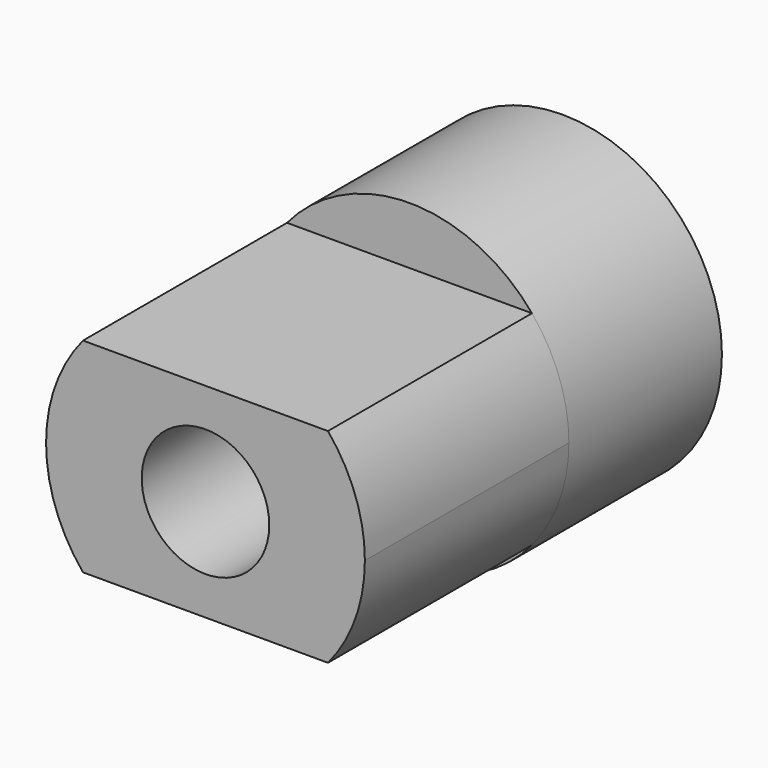
from build123d import *

# Parameters (mm, degrees)
F0_R     = 2.5
F1_DEPTH = 3
F3_DEPTH = 4
F4_R     = 1
F5_DEPTH = 4


with BuildPart() as f1:
    # F0 (on Front) → F1 (new body)
    with BuildSketch(Plane.XZ):
        Circle(F0_R)
    extrude(amount=F1_DEPTH)

    # F2 (on face) → F3 (join)
    with BuildSketch(Plane.XZ.offset(3)):
        with BuildLine():
            Line((1.920937, 1.6), (-1.920937, 1.6))
            ThreePointArc((-1.920937, 1.6), (-2.5, 0), (-1.920937, -1.6))
            Line((-1.920937, -1.6), (1.920937, -1.6))
            ThreePointArc((1.920937, -1.6), (2.350781, -0.850781), (2.5, 0))
            ThreePointArc((2.5, 0), (2.350781, 0.850781), (1.920937, 1.6))
        make_face()
    extrude(amount=F3_DEPTH)

    # F4 (on face) → F5 (cut)
    with BuildSketch(Plane.XZ.offset(7)):
        Circle(F4_R)
    extrude(amount=-F5_DEPTH, mode=Mode.SUBTRACT)


solid = f1.part
